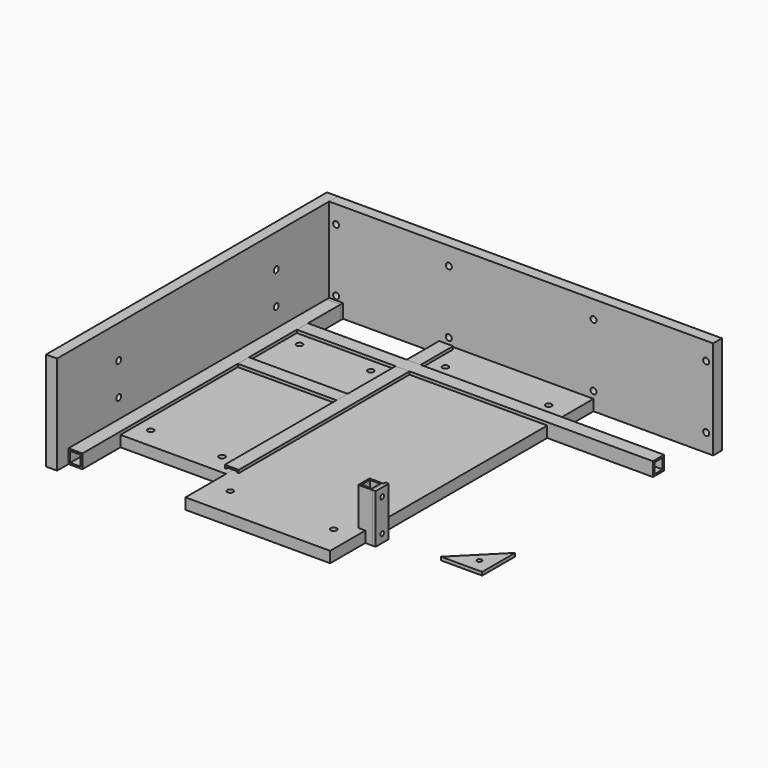
from build123d import *

# Parameters (mm, degrees)
F2_DEPTH        = 25.4
F3_DEPTH        = 25.4
F1_W            = 25.4
F1_H            = 74
F4_DEPTH        = 25.4
F5_DEPTH        = 25.4
F6_T            = -3.175
F7_T            = -3.175
F8_T            = -3.175
F9_T            = -3.175
F1_H_2          = 6
F10_DEPTH       = 25.4
F12_D           = 8.5
F14_DEPTH       = 6
F15_D           = 8.5
F16_W           = 700
F16_H           = 20
F17_DEPTH       = 180
F19_D           = 11
F19_CSINK_D     = 22.4
F19_CSINK_ANGLE = 90
F20_W           = 20
F20_H           = 640
F21_DEPTH       = 180
F22_W           = 218.1
F22_H           = 414.6
F23_DEPTH       = 20
F22_W_2         = 263.8
F22_H_2         = 92.7
F24_DEPTH       = 20
F25_D           = 11
F25_CSINK_D     = 22.4
F25_CSINK_ANGLE = 90
F26_D           = 11
F26_CSINK_D     = 22.4
F26_CSINK_ANGLE = 90
F27_W           = 25.4
F27_H           = 25.4
F28_DEPTH       = 89.2
F29_T           = -3.175
F30_W           = 25.4
F30_H           = 89.2
F30_W_2         = 4.6
F31_DEPTH       = 6
F32_D           = 8.5
F34_D           = 11
F34_CSINK_D     = 22.4
F34_CSINK_ANGLE = 90
F1_W_2          = 180
F1_H_3          = 25.4
F35_DEPTH       = 25.4
F36_T           = -3.175


with BuildPart() as f2:
    # F1 (on Top) → F2 (new body)
    with BuildSketch(Plane.XY):
        Polygon((-350, -294), (-324.6, -294), (-324.6, -220), (-324.6, -194.6), (-324.6, -85.4), (-324.6, -60), (-324.6, 60), (-324.6, 85.4), (-324.6, 194.6), (-324.6, 220), (-324.6, 294), (-350, 294), align=None)
    extrude(amount=F2_DEPTH)

    # F6
    f6_openings = [f2.faces().sort_by_distance(p)[0] for p in [
        (-337.3, 294, 12.7),
        (-337.3, -294, 12.7),
    ]]
    offset(amount=F6_T, openings=f6_openings)


with BuildPart() as f3:
    # F1 (on Top) → F3 (new body)
    with BuildSketch(Plane.XY):
        Polygon((324.6, 194.6), (324.6, 220), (144.6, 220), (119.2, 220), (-119.2, 220), (-144.6, 220), (-324.6, 220), (-324.6, 194.6), (-144.6, 194.6), (-119.2, 194.6), (119.2, 194.6), (144.6, 194.6), align=None)
    extrude(amount=F3_DEPTH)

    # F7
    f7_openings = [f3.faces().sort_by_distance(p)[0] for p in [
        (-324.6, 207.3, 12.7),
        (324.6, 207.3, 12.7),
    ]]
    offset(amount=F7_T, openings=f7_openings)


with BuildPart() as f4:
    # F1 (on Top) → F4 (new body)
    with BuildSketch(Plane.XY):
        with Locations((-131.9, 257)):
            Rectangle(F1_W, F1_H)
    extrude(amount=F4_DEPTH)

    # F8
    f8_openings = [f4.faces().sort_by_distance(p)[0] for p in [
        (-131.9, 294, 12.7),
        (-131.9, 220, 12.7),
    ]]
    offset(amount=F8_T, openings=f8_openings)


with BuildPart() as f5:
    # F1 (on Top) → F5 (new body)
    with BuildSketch(Plane.XY):
        Polygon((-144.6, -194.6), (-119.2, -194.6), (-119.2, 194.6), (-144.6, 194.6), (-144.6, 85.4), (-144.6, 60), (-144.6, -60), (-144.6, -85.4), align=None)
    extrude(amount=F5_DEPTH)

    # F9
    f9_openings = [f5.faces().sort_by_distance(p)[0] for p in [
        (-131.9, -194.6, 12.7),
        (-131.9, 194.6, 12.7),
    ]]
    offset(amount=F9_T, openings=f9_openings)


with BuildPart() as f10:
    # F1 (on Top) → F10 (new body)
    with BuildSketch(Plane.XY):
        with Locations((-337.3, 297)):
            Rectangle(F1_W, F1_H_2)
    extrude(amount=F10_DEPTH)

    # F12 (through all)
    with Locations(Plane(origin=(0, 300, 0), x_dir=(-1, 0, 0), z_dir=(0, 1, 0))):
        with Locations((337.3, 12.7)):
            Hole(F12_D / 2)


with BuildPart() as f14:
    # F13 (on Top) → F14 (new body)
    with BuildSketch(Plane.XY):
        Polygon((324.6, -119.6), (249.6, -194.6), (324.6, -194.6), align=None)
    extrude(amount=F14_DEPTH)

    # F15 (through all)
    with Locations(Plane(origin=(0, 0, 0), x_dir=(1, 0, 0), z_dir=(0, 0, -1))):
        with Locations((299.6, 169.6)):
            Hole(F15_D / 2)


with BuildPart() as f17:
    # F16 (on face) → F17 (new body)
    with BuildSketch(Plane.XY):
        with Locations((0, 310)):
            Rectangle(F16_W, F16_H)
    extrude(amount=F17_DEPTH)

    # F19 (through all)
    with Locations(Plane(origin=(0, 320, 0), x_dir=(-1, 0, 0), z_dir=(0, 1, 0))):
        with Locations((-131.9, 147.3), (-131.9, 32.7), (-337.3, 147.3), (-337.3, 32.7), (131.9, 147.3), (131.9, 32.7), (337.3, 147.3), (337.3, 32.7)):
            CounterSinkHole(F19_D / 2, F19_CSINK_D / 2, counter_sink_angle=F19_CSINK_ANGLE)


with BuildPart() as f21:
    # F20 (on Top) → F21 (new body)
    with BuildSketch(Plane.XY):
        with Locations((-360, 0)):
            Rectangle(F20_W, F20_H)
    extrude(amount=F21_DEPTH)

    # F34 (through all)
    with Locations(Plane(origin=(-370, 0, 0), x_dir=(0, -1, 0), z_dir=(-1, 0, 0))):
        with Locations((-179.6, 119.6), (-179.6, 60.4), (179.6, 119.6), (179.6, 60.4)):
            CounterSinkHole(F34_D / 2, F34_CSINK_D / 2, counter_sink_angle=F34_CSINK_ANGLE)


with BuildPart() as f23:
    # F22 (on Top) → F23 (new body)
    with BuildSketch(Plane.XY):
        with Locations((-240.95, 0)):
            Rectangle(F22_W, F22_H)
    extrude(amount=F23_DEPTH)

    # F25 (through all)
    with Locations(Plane(origin=(0, 0, 0), x_dir=(1, 0, 0), z_dir=(0, 0, -1))):
        with Locations((-299.6, -169.6), (-169.6, -169.6), (-169.6, 169.6), (-299.6, 169.6)):
            CounterSinkHole(F25_D / 2, F25_CSINK_D / 2, counter_sink_angle=F25_CSINK_ANGLE)


with BuildPart() as f24:
    # F22 (on Top) → F24 (new body)
    with BuildSketch(Plane.XY):
        with Locations((0, 253.65)):
            Rectangle(F22_W_2, F22_H_2)
        Rectangle(F22_W_2, F22_H)
        with Locations((0, -253.65)):
            Rectangle(F22_W_2, F22_H_2)
    extrude(amount=F24_DEPTH)

    # F26 (through all)
    with Locations(Plane(origin=(0, 0, 0), x_dir=(1, 0, 0), z_dir=(0, 0, -1))):
        with Locations((-94.2, -245), (94.2, -245), (-94.2, 245), (94.2, 245)):
            CounterSinkHole(F26_D / 2, F26_CSINK_D / 2, counter_sink_angle=F26_CSINK_ANGLE)


with BuildPart() as f28:
    # F27 (on Top) → F28 (new body)
    with BuildSketch(Plane.XY):
        with Locations((131.9, -207.3)):
            Rectangle(F27_W, F27_H)
    extrude(amount=F28_DEPTH)

    # F29
    f29_openings = [f28.faces().sort_by_distance(p)[0] for p in [
        (131.9, -207.3, 89.2),
        (131.9, -207.3, 0),
    ]]
    offset(amount=F29_T, openings=f29_openings)


with BuildPart() as f31:
    # F30 (on face) → F31 (new body)
    with BuildSketch(Plane.YZ.offset(144.6)):
        with Locations((-207.3, 44.6)):
            Rectangle(F30_W, F30_H)
        with Locations((-192.3, 44.6)):
            Rectangle(F30_W_2, F30_H)
    extrude(amount=F31_DEPTH)

    # F32 (through all)
    with Locations(Plane(origin=(144.6, 0, 0), x_dir=(0, 1, 0), z_dir=(-1, 0, 0))):
        with Locations((-205, -74.2), (-205, -15)):
            Hole(F32_D / 2)


with BuildPart() as f35:
    # F1 (on Top) → F35 (new body)
    with BuildSketch(Plane.XY):
        with Locations((-234.6, 72.7)):
            Rectangle(F1_W_2, F1_H_3)
    extrude(amount=F35_DEPTH)

    # F36
    f36_openings = [f35.faces().sort_by_distance(p)[0] for p in [
        (-324.6, 72.7, 12.7),
        (-144.6, 72.7, 12.7),
    ]]
    offset(amount=F36_T, openings=f36_openings)


solid = Compound([f2.part, f3.part, f4.part, f5.part, f10.part, f14.part, f17.part, f21.part, f23.part, f24.part, f28.part, f31.part, f35.part])
